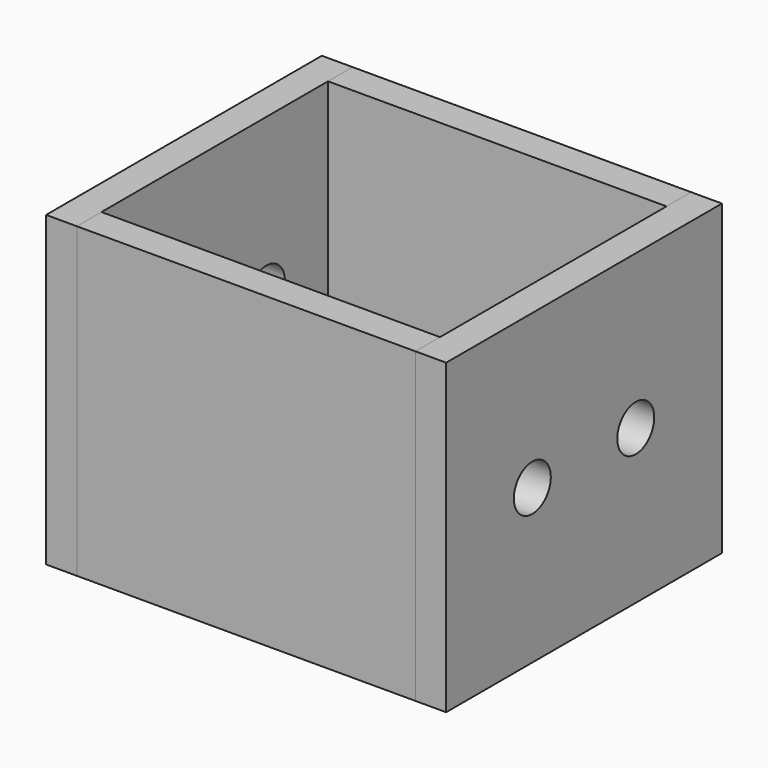
from build123d import *

# Parameters (mm, degrees)
F0_W     = 56
F0_H     = 100
F0_R     = 7.5
F1_DEPTH = 10
F3_W     = 10
F3_H     = 100
F4_DEPTH = 110


with BuildPart() as f1:
    # F0 (on Right) → F1 (new body)
    with BuildSketch(Plane.YZ):
        with Locations((-7, 0)):
            Rectangle(F0_W, F0_H)
        Circle(F0_R, mode=Mode.SUBTRACT)
    extrude(amount=F1_DEPTH)

    # F2: F1 across face


with BuildPart() as f1_1:
    add(f1.part)
    add(f1.part.mirror(Plane(origin=(5, 21, 0), x_dir=(-1, 0, 0), z_dir=(0, 1, 0))))


with BuildPart() as f4:
    # F3 (on face) → F4 (new body)
    with BuildSketch(Plane.YZ.offset(10)):
        with Locations((-30, 0)):
            Rectangle(F3_W, F3_H)
    extrude(amount=F4_DEPTH)


with BuildPart() as f6_1:
    # F6: instance of F4
    add(f4.part.mirror(Plane(origin=(5, 21, 0), x_dir=(-1, 0, 0), z_dir=(0, 1, 0))))


with BuildPart() as f8_1:
    # F8: instance of F1
    add(f1_1.part.mirror(Plane(origin=(65, -4.5, 0), x_dir=(0, 1, 0), z_dir=(1, 0, 0))))


solid = Compound([f1_1.part, f4.part, f6_1.part, f8_1.part])
